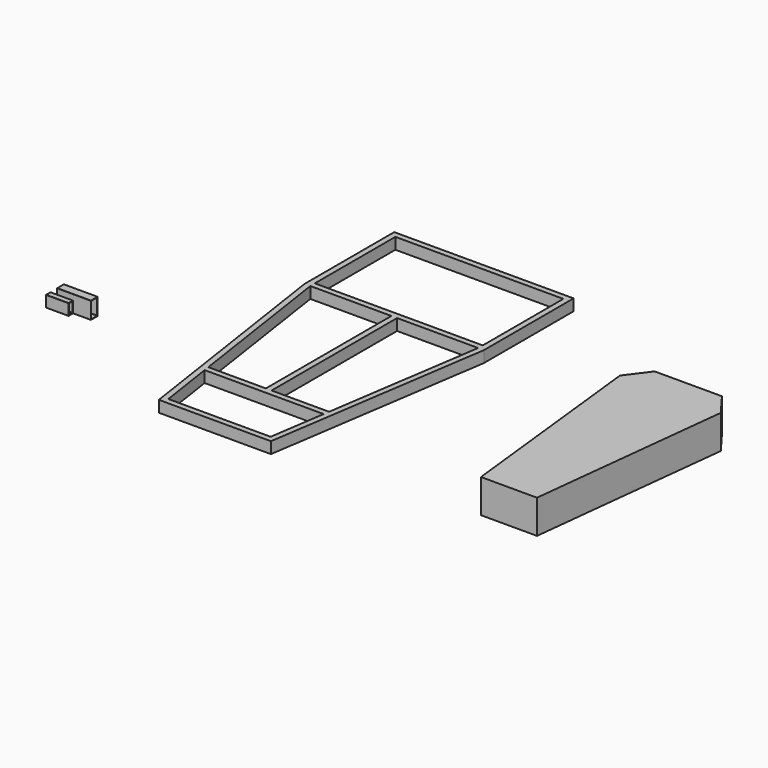
from build123d import *

# Parameters (mm, degrees)
F1_DEPTH = 100
F2_DEPTH = 150
F5_DEPTH = 150
F6_DEPTH = 50.8


with BuildPart() as f1:
    # F0 (on Right) → F1 (new body)
    with BuildSketch(Plane.YZ):
        with BuildLine():
            Line((18.313764, 9.163407), (-5.086236, 9.163407))
            ThreePointArc((-5.086236, 9.163407), (-5.793343, 8.870514), (-6.086236, 8.163407))
            Line((-6.086236, 8.163407), (-6.086236, -40.636593))
            ThreePointArc((-6.086236, -40.636593), (-5.793343, -41.3437), (-5.086236, -41.636593))
            Line((-5.086236, -41.636593), (18.313764, -41.636593))
            ThreePointArc((18.313764, -41.636593), (19.020871, -41.3437), (19.313764, -40.636593))
            Line((19.313764, -40.636593), (19.313764, 8.163407))
            ThreePointArc((19.313764, 8.163407), (19.020871, 8.870514), (18.313764, 9.163407))
        make_face()
        with BuildLine():
            ThreePointArc((-3.978036, 6.055207), (-3.685143, 6.762314), (-2.978036, 7.055207))
            Line((-2.978036, 7.055207), (16.205564, 7.055207))
            ThreePointArc((16.205564, 7.055207), (16.912671, 6.762314), (17.205564, 6.055207))
            Line((17.205564, 6.055207), (17.205564, -38.528393))
            ThreePointArc((17.205564, -38.528393), (16.912671, -39.2355), (16.205564, -39.528393))
            Line((16.205564, -39.528393), (-2.978036, -39.528393))
            ThreePointArc((-2.978036, -39.528393), (-3.685143, -39.2355), (-3.978036, -38.528393))
            Line((-3.978036, -38.528393), (-3.978036, 6.055207))
        make_face(mode=Mode.SUBTRACT)
    extrude(amount=F1_DEPTH)


with BuildPart() as f2:
    # F0 (on Right) → F2 (new body)
    with BuildSketch(Plane.YZ):
        with BuildLine():
            Line((92.806729, 10.079439), (56.706729, 10.079439))
            ThreePointArc((56.706729, 10.079439), (55.999622, 9.786546), (55.706729, 9.079439))
            Line((55.706729, 9.079439), (55.706729, -65.120561))
            ThreePointArc((55.706729, -65.120561), (55.999622, -65.827668), (56.706729, -66.120561))
            Line((56.706729, -66.120561), (92.806729, -66.120561))
            ThreePointArc((92.806729, -66.120561), (93.513835, -65.827668), (93.806729, -65.120561))
            Line((93.806729, -65.120561), (93.806729, 9.079439))
            ThreePointArc((93.806729, 9.079439), (93.513835, 9.786546), (92.806729, 10.079439))
        make_face()
        with BuildLine():
            Line((57.814929, -63.012361), (57.814929, 6.971239))
            ThreePointArc((57.814929, 6.971239), (58.107822, 7.678346), (58.814929, 7.971239))
            Line((58.814929, 7.971239), (90.698529, 7.971239))
            ThreePointArc((90.698529, 7.971239), (91.405635, 7.678346), (91.698529, 6.971239))
            Line((91.698529, 6.971239), (91.698529, -63.012361))
            ThreePointArc((91.698529, -63.012361), (91.405635, -63.719468), (90.698529, -64.012361))
            Line((90.698529, -64.012361), (58.814929, -64.012361))
            ThreePointArc((58.814929, -64.012361), (58.107822, -63.719468), (57.814929, -63.012361))
        make_face(mode=Mode.SUBTRACT)
    extrude(amount=F2_DEPTH)


with BuildPart() as f5:
    # F4 (on Top) → F5 (new body)
    with BuildSketch(Plane.XY):
        Polygon((2210.250998, -344.211429), (2335.250998, -344.211429), (2460.250998, -344.211429), (2560.250998, 555.788571), (2485.250998, 655.788571), (2335.250998, 655.788571), (2185.250998, 655.788571), (2110.250998, 555.788571), align=None)
    extrude(amount=F5_DEPTH)


with BuildPart() as f6:
    # F3 (on Top) → F6 (new body)
    with BuildSketch(Plane.XY):
        Polygon((1501.474643, 1058.381399), (701.474643, 1058.381399), (701.474643, 558.381399), (851.474643, -441.618601), (1101.474643, -441.618601), (1351.474643, -441.618601), (1501.474643, 558.381399), align=None)
        Polygon((1101.474643, -416.218601), (873.348803, -416.218601), (835.968803, -167.018601), (1101.474643, -167.018601), (1366.980482, -167.018601), (1329.600482, -416.218601), align=None, mode=Mode.SUBTRACT)
        Polygon((727.158803, 558.381399), (1088.774643, 558.381399), (1088.774643, -141.618601), (832.158803, -141.618601), align=None, mode=Mode.SUBTRACT)
        Polygon((1114.174643, -141.618601), (1114.174643, 558.381399), (1475.790482, 558.381399), (1370.790482, -141.618601), align=None, mode=Mode.SUBTRACT)
        Polygon((726.874643, 583.781399), (726.874643, 1032.981399), (1476.074643, 1032.981399), (1476.074643, 583.781399), (1101.474643, 583.781399), align=None, mode=Mode.SUBTRACT)
    extrude(amount=F6_DEPTH)


solid = Compound([f1.part, f2.part, f5.part, f6.part])
